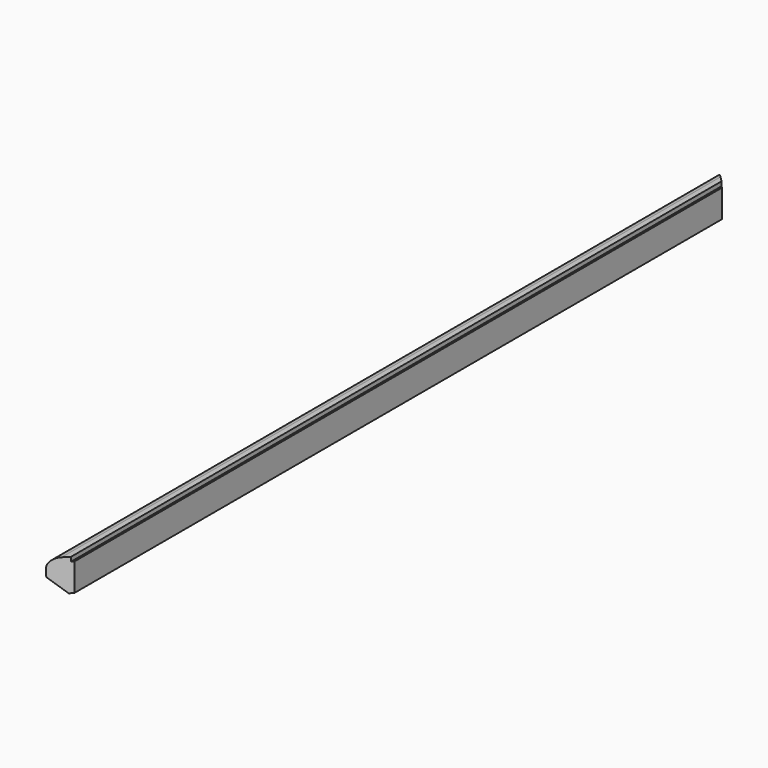
from build123d import *

# Parameters (mm, degrees)
F1_DEPTH = 1400
F3_DEPTH = 52.001


with BuildPart() as f1:
    # F0 (on Front) → F1 (new body)
    with BuildSketch(Plane.XZ):
        with BuildLine():
            Line((-3, 0), (-11.4, 0))
            ThreePointArc((-11.4, 0), (-21.299495, -4.100505), (-25.4, -14))
            Line((-25.4, -14), (-25.4, -25.21887))
            ThreePointArc((-25.4, -25.21887), (-25.110076, -26.896721), (-24.273926, -28.379993))
            Line((-24.273926, -28.379993), (-5, -52))
            Line((-5, -52), (0, -52))
            Line((0, -52), (0, -7))
            Line((0, -7), (-3, -7))
            Line((-3, -7), (-3, 0))
        make_face()
    extrude(amount=F1_DEPTH)

    # F2 (on face) → F3 (cut, through all)
    with BuildSketch(Plane.XY):
        Polygon((-25.4, 2.43225), (-25.4, 0), (0, -25.4), (0, 0), (2.469288, 2.43225), align=None)
        Polygon((12.007684, -1377.653718), (0, -1338.716), (-53.200086, -1391.916086), (5.710082, -1417.377114), align=None)
    extrude(amount=-F3_DEPTH, mode=Mode.SUBTRACT)


solid = f1.part
